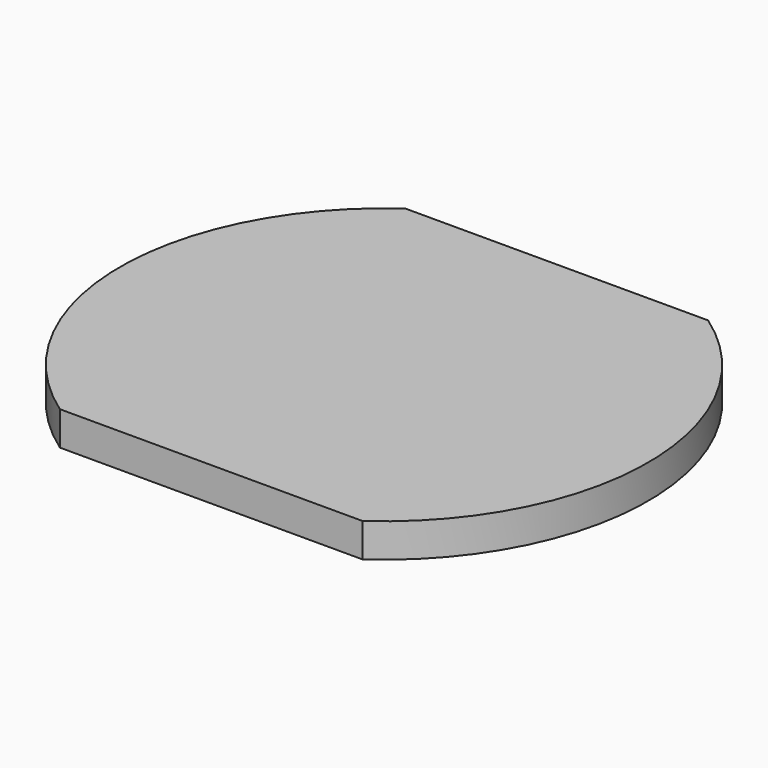
from build123d import *

# Parameters (mm, degrees)
PAD_1_DEPTH = 5


with BuildPart() as part:
    # Sketch_1 → Pad_1 (new body)
    with BuildSketch(Plane.XY):
        with BuildLine():
            ThreePointArc((22.449937, -31.843215), (39.053109, 0.227628), (22.262078, 32.200517))
            Line((22.262078, 32.200517), (-22.450719, 32.200517))
            ThreePointArc((-22.450719, 32.200517), (-39.052998, 0.129471), (-22.262078, -31.843215))
            Line((-22.262078, -31.843215), (22.449937, -31.843215))
        make_face()
    extrude(amount=PAD_1_DEPTH)


solid = part.part
